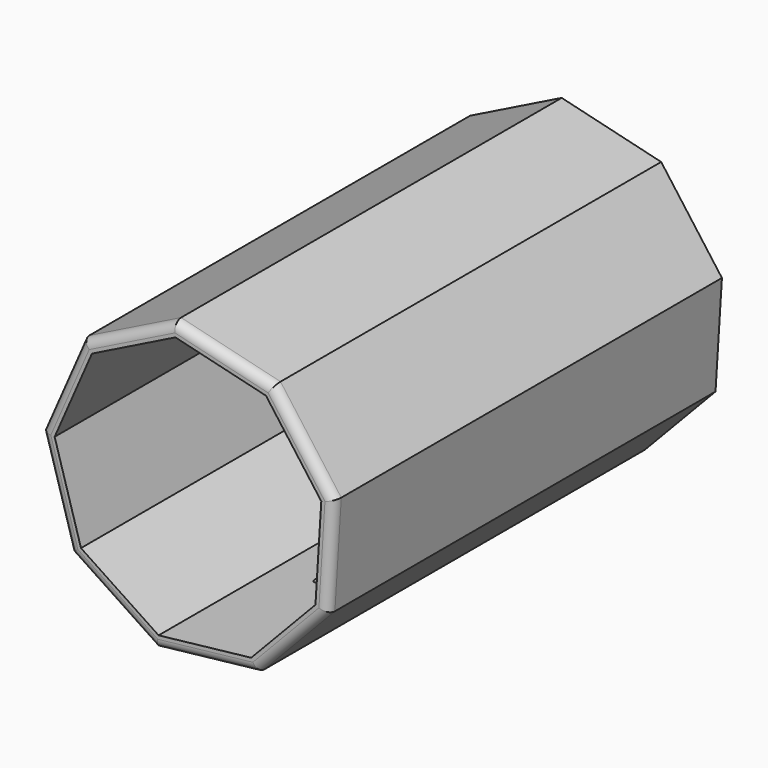
from build123d import *

# Parameters (mm, degrees)
F1_DEPTH       = 270
F2_T           = -7
F5_D           = 5
F5_DEPTH       = 20
F5_CBORE_D     = 10
F5_CBORE_DEPTH = 5
F6_R           = 5


with BuildPart() as f1:
    # F0 (on Front) → F1 (new body)
    with BuildSketch(Plane.XZ):
        Polygon((37.060434, -74.633442), (76.363391, -33.350546), (79.93507, 23.537441), (46.10424, 69.411998), (-9.299275, 82.80791), (-60.351557, 57.45708), (-83.164674, 5.221444), (-67.064116, -49.457364), (-19.583513, -80.994521), align=None)
    extrude(amount=F1_DEPTH)

    # F2
    f2_openings = [f1.faces().sort_by_distance(p)[0] for p in [
        (0, -270, 0),
    ]]
    offset(amount=F2_T, openings=f2_openings)

    # F5
    with Locations(Plane(origin=(8.73846, 0, -77.813982), x_dir=(0.993753, 0, 0.111598), z_dir=(0.111598, 0, -0.993753))):
        with Locations((0, 190.445736)):
            CounterBoreHole(F5_D / 2, F5_CBORE_D / 2, F5_CBORE_DEPTH, depth=F5_DEPTH)

    # F6
    f6_edges = [f1.edges().sort_by_distance(p)[0] for p in [
        (-75.114395, -270, -22.11796),
        (8.73846, -270, -77.813982),
        (56.711913, -270, -53.991994),
        (-43.323814, -270, -65.225943),
        (78.14923, -270, -4.906553),
        (63.019655, -270, 46.47472),
        (18.402482, -270, 76.109954),
        (-34.825416, -270, 70.132495),
        (-71.758115, -270, 31.339262),
    ]]
    fillet(f6_edges, radius=F6_R)


solid = f1.part
